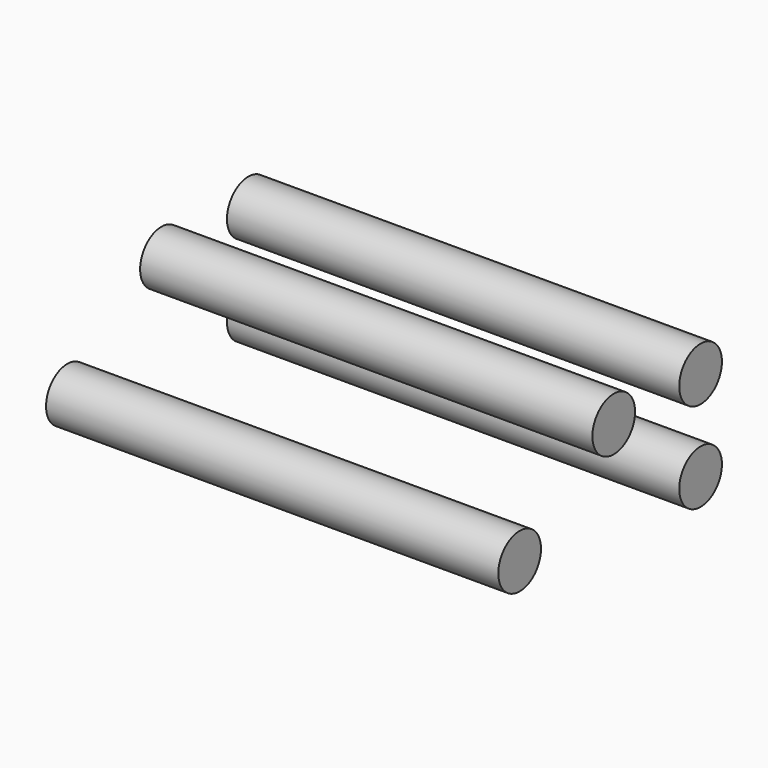
from build123d import *

# Parameters (mm, degrees)
F0_R     = 1.475
F1_DEPTH = 25


with BuildPart() as f1:
    # F0 (on Right) → F1 (new body)
    with BuildSketch(Plane.YZ):
        with Locations((-12.5, 0.971581)):
            Circle(F0_R)
        with Locations((-6, 5)):
            Circle(F0_R)
        with Locations((0, 5)):
            Circle(F0_R)
        Circle(F0_R)
    extrude(amount=F1_DEPTH)


solid = f1.part
